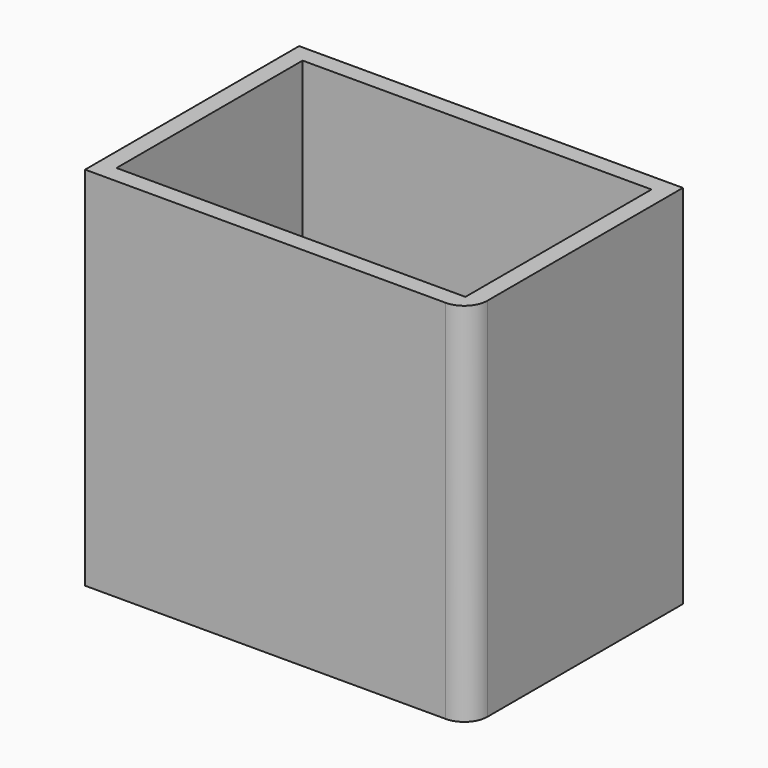
from build123d import *

# Parameters (mm, degrees)
F1_DEPTH = 3.81
F2_W     = 76.2
F2_H     = 50.8
F3_DEPTH = 76.2
F4_R     = 5.08


with BuildPart() as f1:
    # F0 (on Top) → F1 (new body)
    with BuildSketch(Plane.XY):
        Polygon((-80.01, 54.61), (-80.01, 50.8), (-80.01, -3.81), (0, -3.81), (3.81, -3.81), (3.81, 0), (3.81, 54.61), (-76.2, 54.61), align=None)
    extrude(amount=F1_DEPTH)

    # F2 (on face) → F3 (join)
    with BuildSketch(Plane.XY.offset(3.81)):
        Polygon((3.81, 54.61), (-76.2, 54.61), (-80.01, 54.61), (-80.01, 50.8), (-80.01, -3.81), (0, -3.81), (3.81, -3.81), (3.81, 0), align=None)
        with Locations((-38.1, 25.4)):
            Rectangle(F2_W, F2_H, mode=Mode.SUBTRACT)
    extrude(amount=F3_DEPTH)

    # F4
    f4_edges = [f1.edges().sort_by_distance(p)[0] for p in [
        (3.81, -3.81, 40.005),
    ]]
    fillet(f4_edges, radius=F4_R)


solid = f1.part
